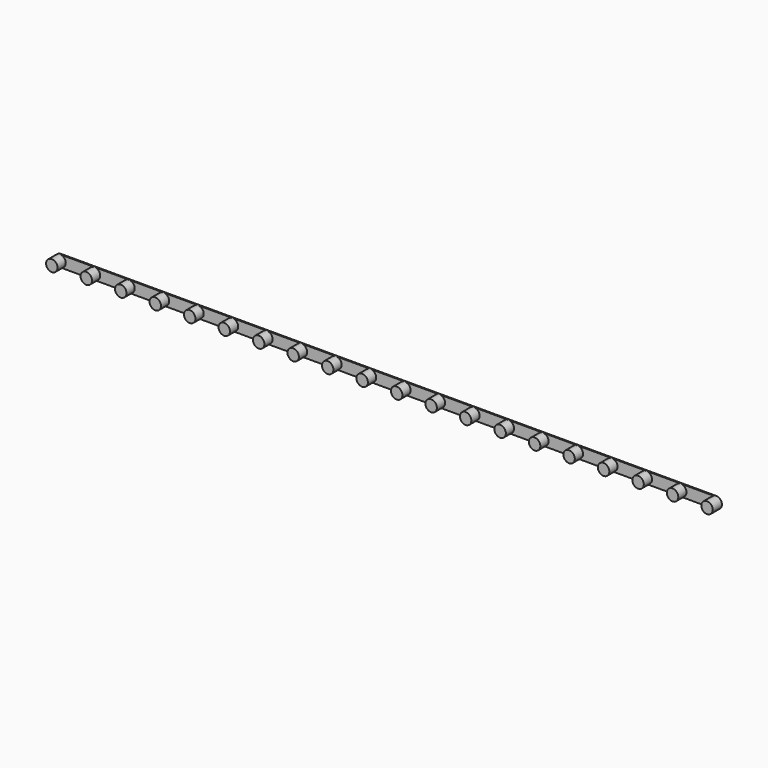
from build123d import *

# Parameters (mm, degrees)
F0_R     = 1.27
F1_DEPTH = 2.54
F3_DEPTH = 0.254


with BuildPart() as f1:
    # F0 (on Front) → F1 (new body)
    with BuildSketch(Plane.XZ):
        Circle(F0_R)
        with Locations((7.649997, 0)):
            Circle(F0_R)
        with Locations((15.299995, 0)):
            Circle(F0_R)
        with Locations((22.949992, 0)):
            Circle(F0_R)
        with Locations((30.59999, 0)):
            Circle(F0_R)
        with Locations((38.249987, 0)):
            Circle(F0_R)
        with Locations((45.899984, 0)):
            Circle(F0_R)
        with Locations((53.549982, 0)):
            Circle(F0_R)
        with Locations((61.199979, 0)):
            Circle(F0_R)
        with Locations((68.849977, 0)):
            Circle(F0_R)
        with Locations((76.499974, 0)):
            Circle(F0_R)
        with Locations((84.149971, 0)):
            Circle(F0_R)
        with Locations((91.799969, 0)):
            Circle(F0_R)
        with Locations((99.449966, 0)):
            Circle(F0_R)
        with Locations((107.099964, 0)):
            Circle(F0_R)
        with Locations((114.749961, 0)):
            Circle(F0_R)
        with Locations((122.399958, 0)):
            Circle(F0_R)
        with Locations((130.049956, 0)):
            Circle(F0_R)
        with Locations((137.699953, 0)):
            Circle(F0_R)
        with Locations((145.349951, 0)):
            Circle(F0_R)
    extrude(amount=F1_DEPTH)

    # F2 (on Front) → F3 (join)
    with BuildSketch(Plane.XZ):
        Polygon((0, -1.27), (145.349951, -1.27), (145.349951, 0), (145.349951, 1.27), (0, 1.27), align=None)
    extrude(amount=F3_DEPTH)


solid = f1.part
